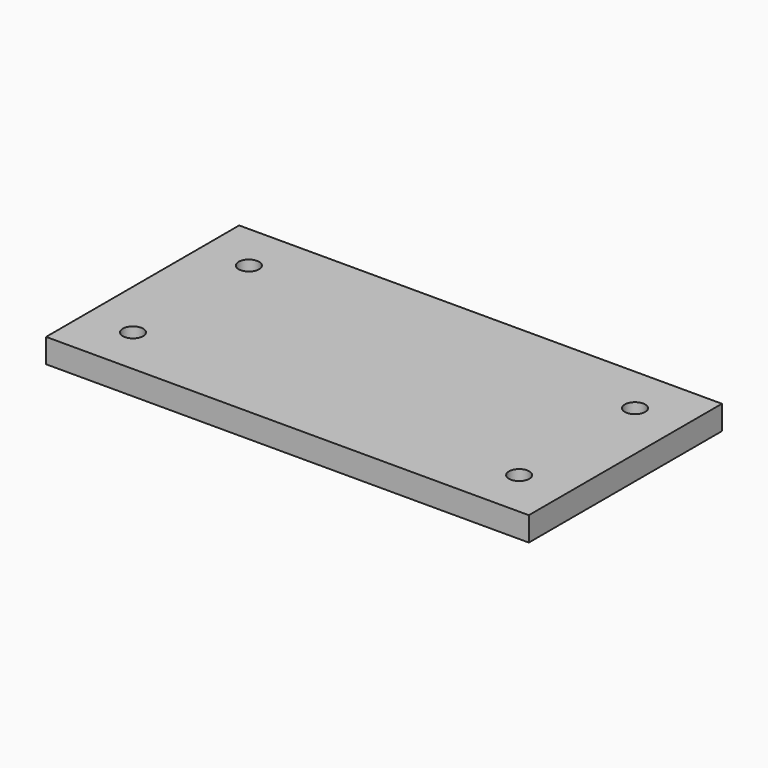
from build123d import *

# Parameters (mm, degrees)
F0_W     = 254
F0_H     = 127
F1_DEPTH = 12.7
F3_D     = 10.71626


with BuildPart() as f1:
    # F0 (on Top) → F1 (new body)
    with BuildSketch(Plane.XY):
        with Locations((-10.6174405664, -3.3515299236)):
            Rectangle(F0_W, F0_H)
    extrude(amount=F1_DEPTH)

    # F3 (through all)
    with Locations(Plane.XY.offset(12.7)):
        with Locations((-112.2174405664, 34.7484700764), (-112.2174405664, -41.4515299236), (90.9825594336, 34.7484700764), (90.9825594336, -41.4515299236)):
            Hole(F3_D / 2)


solid = f1.part
